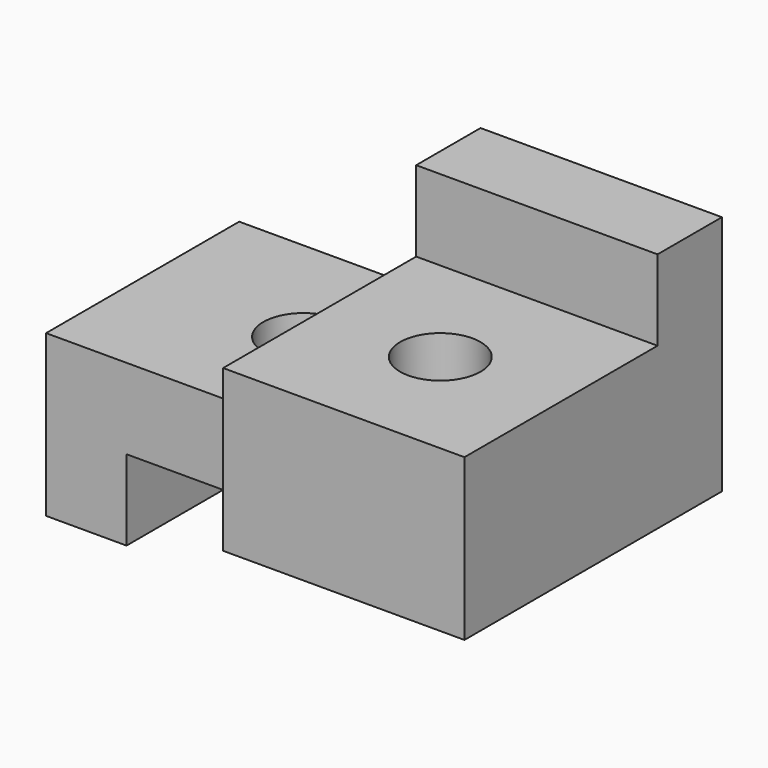
from build123d import *

# Parameters (mm, degrees)
F1_DEPTH = 19.05
F3_DEPTH = 19.05
F4_R     = 3.175
F5_DEPTH = 19.051


with BuildPart() as f1:
    # F0 (on Front) → F1 (new body)
    with BuildSketch(Plane.XZ):
        Polygon((0, 0), (0, 6.35), (-19.05, 6.35), (-19.05, 0), (-19.05, -6.35), (-12.7, -6.35), (-12.7, 0), align=None)
    extrude(amount=F1_DEPTH)

    # F2 (on Right) → F3 (join)
    with BuildSketch(Plane.YZ):
        Polygon((-25.4, 0), (0, 0), (0, 12.7), (0, 19.05), (-6.35, 19.05), (-6.35, 12.7), (-25.4, 12.7), align=None)
    extrude(amount=F3_DEPTH)

    # F4 (on face) → F5 (cut, through all)
    with BuildSketch(Plane.XY.offset(12.7)):
        with Locations((9.525, -15.875)):
            Circle(F4_R)
        with Locations((-6.35, -9.525)):
            Circle(F4_R)
    extrude(amount=-F5_DEPTH, mode=Mode.SUBTRACT)


solid = f1.part
